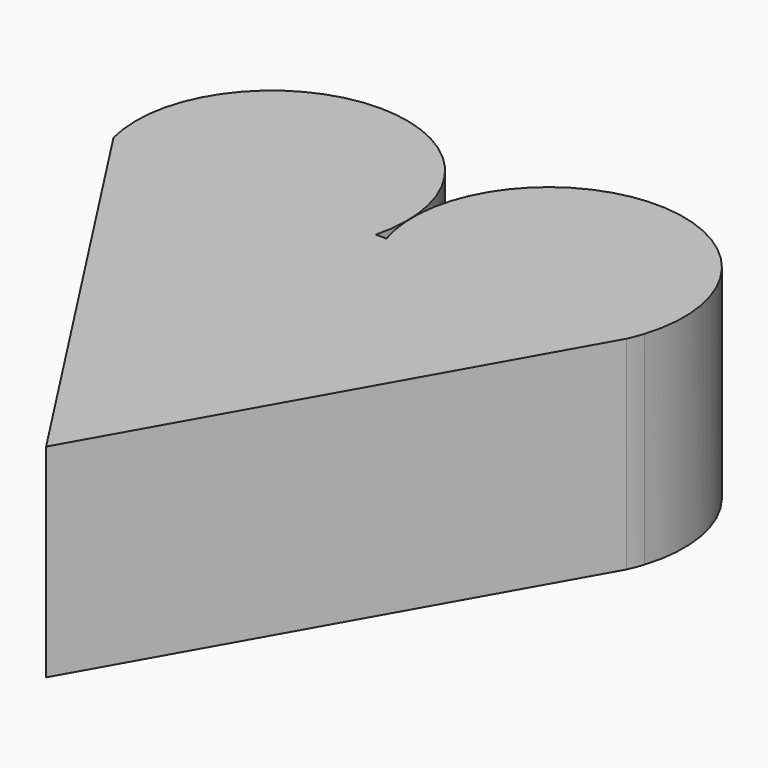
from build123d import *

# Parameters (mm, degrees)
F1_DEPTH = 38.1


with BuildPart() as f1:
    # F0 (on Top) → F1 (new body)
    with BuildSketch(Plane.XY):
        with BuildLine():
            Line((-59.369042, 37.685493), (-61.37024, 37.685493))
            ThreePointArc((-61.37024, 37.685493), (-85.964896, 69.4308), (-110.559551, 37.685493))
            Line((-110.559551, 37.685493), (-57.076961, -44.962659))
            Line((-57.076961, -44.962659), (-12.102065, 34.814507))
            ThreePointArc((-12.102065, 34.814507), (-11.501003, 36.233084), (-10.987052, 37.685493))
            ThreePointArc((-10.987052, 37.685493), (-35.178047, 70.828604), (-59.369042, 37.685493))
        make_face()
    extrude(amount=F1_DEPTH)


solid = f1.part
